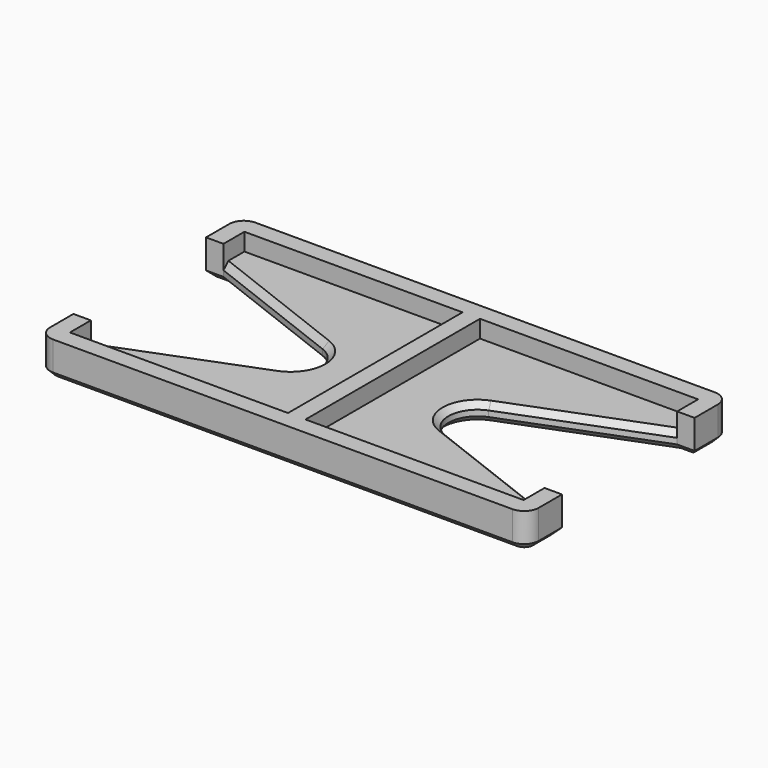
from build123d import *

# Parameters (mm, degrees)
F2_DEPTH = 1.2
F3_DEPTH = 2.4
F4_R     = 2
F5_R     = 1
F6_SIZE  = 0.4


with BuildPart() as f2:
    # F1 (on Top) → F2 (new body)
    with BuildSketch(Plane.XY):
        Polygon((-15.6, 7.5), (-15.6, 5.7), (-0.9, 0), (-15.6, -5.7), (-15.6, -7.5), (-0.6, -7.5), (-0.6, 0), (-0.6, 7.5), align=None)
    extrude(amount=F2_DEPTH)



with BuildPart() as f2b:
    # F1 (on Top) → F2, piece 2 (new body)
    with BuildSketch(Plane.XY):
        Polygon((0.9, 0), (15.6, 5.7), (15.6, 7.5), (0.6, 7.5), (0.6, 0), (0.6, -7.5), (15.6, -7.5), (15.6, -5.7), align=None)
    extrude(amount=F2_DEPTH)


with BuildPart() as f2_1:
    add(f2.part)

    add(f2b.part)  # F3 merges F2b
    # F1 (on Top) → F3 (join)
    with BuildSketch(Plane.XY):
        Polygon((0, 8.7), (-16.8, 8.7), (-16.8, 5.7), (-15.6, 5.7), (-15.6, 7.5), (-0.6, 7.5), (-0.6, 0), (-0.6, -7.5), (-15.6, -7.5), (-15.6, -5.7), (-16.8, -5.7), (-16.8, -8.7), (0, -8.7), (16.8, -8.7), (16.8, -5.7), (15.6, -5.7), (15.6, -7.5), (0.6, -7.5), (0.6, 0), (0.6, 7.5), (15.6, 7.5), (15.6, 5.7), (16.8, 5.7), (16.8, 8.7), align=None)
    extrude(amount=F3_DEPTH)

    # F4
    f4_edges = [f2_1.edges().sort_by_distance(p)[0] for p in [
        (-0.9, 0, 0.6),
        (0.9, 0, 0.6),
    ]]
    fillet(f4_edges, radius=F4_R)

    # F5
    f5_edges = [f2_1.edges().sort_by_distance(p)[0] for p in [
        (16.8, -8.7, 1.2),
        (16.8, 8.7, 1.2),
        (-16.8, -8.7, 1.2),
        (-16.8, 8.7, 1.2),
    ]]
    fillet(f5_edges, radius=F5_R)

    # F6
    f6_edges = [f2_1.edges().sort_by_distance(p)[0] for p in [
        (16.8, 6.7, 0),
        (16.507107, 8.407107, 0),
        (16.2, 5.7, 0),
        (0, 8.7, 0),
        (10.654511, 3.782361, 0),
        (-16.507107, 8.407107, 0),
        (4.432077, 0, 0),
        (-16.8, 6.7, 0),
        (10.654511, -3.782361, 0),
        (-16.2, 5.7, 0),
        (16.2, -5.7, 0),
        (-10.654511, 3.782361, 0),
        (16.8, -6.7, 0),
        (-4.432077, 0, 0),
        (16.507107, -8.407107, 0),
        (-10.654511, -3.782361, 0),
        (0, -8.7, 0),
        (-16.2, -5.7, 0),
        (-16.507107, -8.407107, 0),
        (-16.8, -6.7, 0),
        (-10.654511, -3.782361, 1.2),
        (4.432077, 0, 1.2),
    ]]
    chamfer(f6_edges, length=F6_SIZE)


solid = f2_1.part
